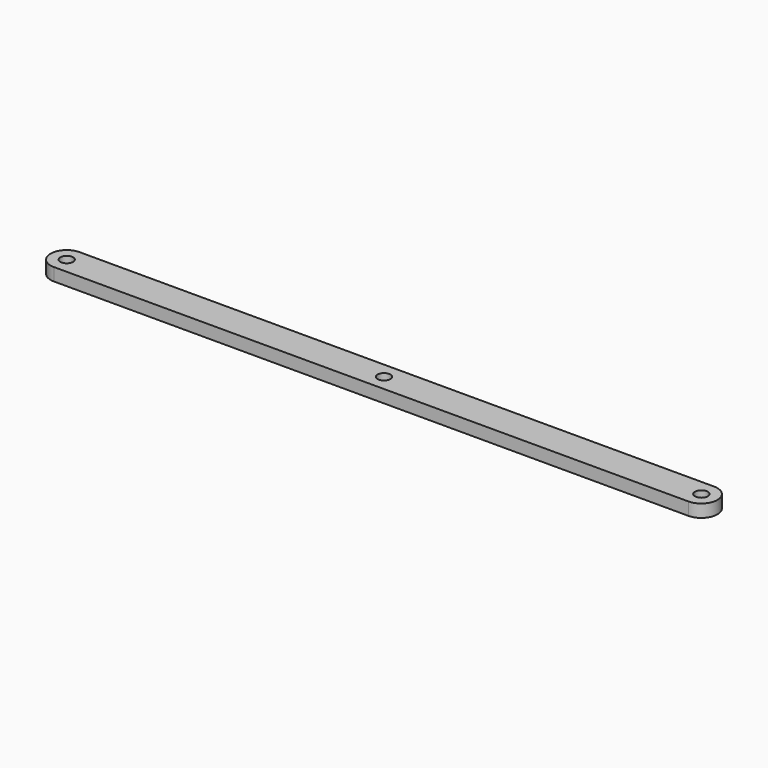
from build123d import *

# Parameters (mm, degrees)
F0_R     = 2.5
F1_DEPTH = 5


with BuildPart() as f1:
    # F0 (on Top) → F1 (new body)
    with BuildSketch(Plane.XY):
        with BuildLine():
            Line((-125, -6.35), (125, -6.35))
            ThreePointArc((125, -6.35), (131.35, 0), (125, 6.35))
            Line((125, 6.35), (-125, 6.35))
            ThreePointArc((-125, 6.35), (-131.35, 0), (-125, -6.35))
        make_face()
        with Locations((-125, 0)):
            Circle(F0_R, mode=Mode.SUBTRACT)
        Circle(F0_R, mode=Mode.SUBTRACT)
        with Locations((125, 0)):
            Circle(F0_R, mode=Mode.SUBTRACT)
    extrude(amount=F1_DEPTH)


solid = f1.part
